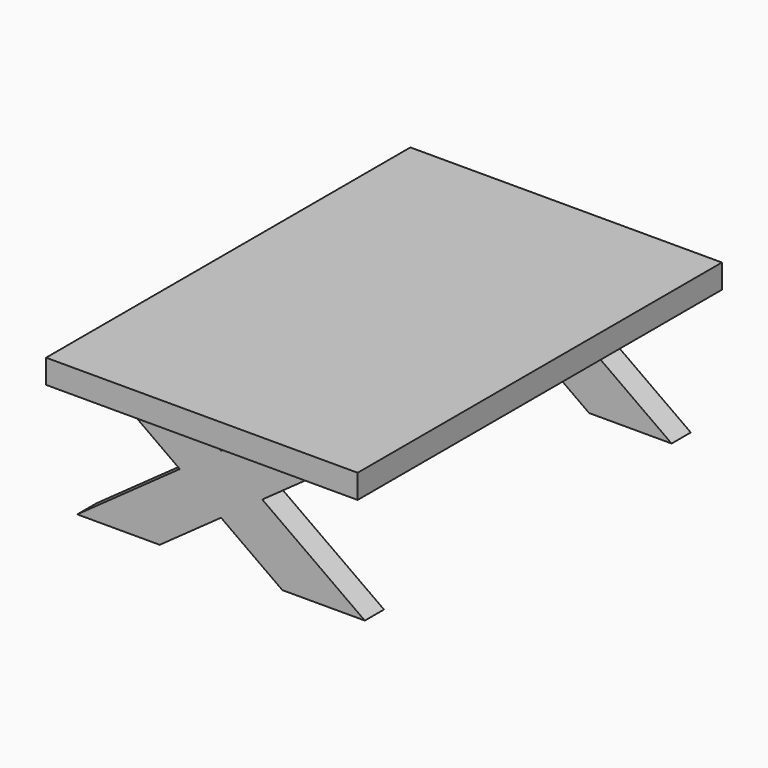
from build123d import *

# Parameters (mm, degrees)
F0_W     = 650
F0_H     = 950
F1_DEPTH = 50
F4_DEPTH = 50


with BuildPart() as f1:
    # F0 (on Top) → F1 (new body)
    with BuildSketch(Plane.XY):
        Rectangle(F0_W, F0_H)
    extrude(amount=F1_DEPTH)

    # F3 (on offset) → F4 (join)
    with BuildSketch(Plane.XZ.offset(375)):
        Polygon((0, -158.604646672), (-86.0232526704, -97.1594661932), (-300, -250), (-127.9534946591, -250), align=None)
        Polygon((0, -35.7142857143), (-86.0232526704, -97.1594661932), (0, -158.604646672), (86.0232526704, -97.1594661932), align=None)
        Polygon((50, 0), (0, -35.7142857143), (86.0232526704, -97.1594661932), (222.0465053409, 0), align=None)
        Polygon((-50, 0), (-222.0465053409, 0), (-86.0232526704, -97.1594661932), (0, -35.7142857143), align=None)
        Polygon((86.0232526704, -97.1594661932), (0, -158.604646672), (127.9534946591, -250), (300, -250), align=None)
        Polygon((0, -158.604646672), (-86.0232526704, -97.1594661932), (-300, -250), (-127.9534946591, -250), align=None)
        Polygon((-50, 0), (-222.0465053409, 0), (-86.0232526704, -97.1594661932), (0, -35.7142857143), align=None)
        Polygon((0, -35.7142857143), (-86.0232526704, -97.1594661932), (0, -158.604646672), (86.0232526704, -97.1594661932), align=None)
        Polygon((50, 0), (0, -35.7142857143), (86.0232526704, -97.1594661932), (222.0465053409, 0), align=None)
        Polygon((86.0232526704, -97.1594661932), (0, -158.604646672), (127.9534946591, -250), (300, -250), align=None)
    extrude(amount=F4_DEPTH)

    # F5: F1 across plane


with BuildPart() as f1_1:
    add(f1.part)
    add(f1.part.mirror(Plane.XZ))


solid = f1_1.part
